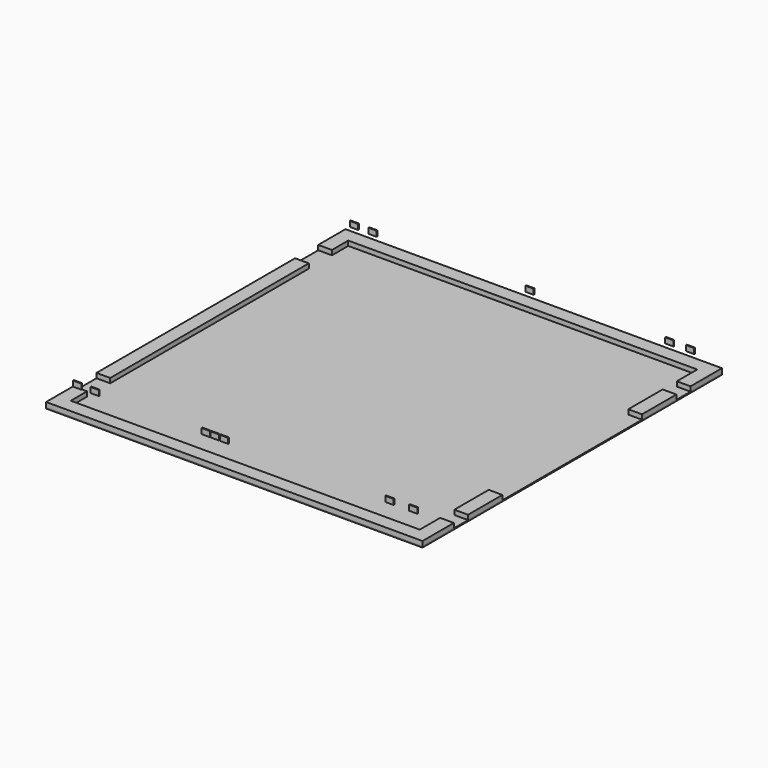
from build123d import *

# Parameters (mm, degrees)
F1_W      = 192
F1_H      = 601
F5_DEPTH  = 66
F6_W      = 5269
F6_H      = 5239
F7_DEPTH  = 15
F2_W      = 115
F2_H      = 14
F8_DEPTH  = 75
F3_W      = 115
F3_H      = 14
F9_DEPTH  = 75
F4_W      = 115
F4_H      = 14
F10_DEPTH = 75


with BuildPart() as f5:
    # F1 (on Top) → F5 (new body)
    with BuildSketch(Plane.XY):
        with Locations((2538.5, 905.5)):
            Rectangle(F1_W, F1_H)
        with Locations((2538.5, 3949.5)):
            Rectangle(F1_W, F1_H)
        Polygon((-2588.5, 4570), (-2488.5, 4570), (-2442.5, 4570), (-2442.5, 4855), (2442.5, 4855), (2442.5, 4498), (2634.5, 4498), (2634.5, 5047), (-2634.5, 5047), (-2634.5, 4570), align=None)
        Polygon((-2588.5, 690), (-2488.5, 690), (-2442.5, 690), (-2442.5, 4165), (-2488.5, 4165), (-2588.5, 4165), (-2634.5, 4165), (-2634.5, 690), align=None)
        Polygon((2442.5, 0), (-2442.5, 0), (-2442.5, 285), (-2488.5, 285), (-2588.5, 285), (-2634.5, 285), (-2634.5, -192), (2634.5, -192), (2634.5, 357), (2442.5, 357), align=None)
    extrude(amount=F5_DEPTH)


with BuildPart() as f7:
    # F6 (on Top) → F7 (new body)
    with BuildSketch(Plane.XY):
        with Locations((0, 2427.5)):
            Rectangle(F6_W, F6_H)
    extrude(amount=-F7_DEPTH)


with BuildPart() as f8:
    # F2 (on offset) → F8 (new body)
    with BuildSketch(Plane.XY.offset(250)):
        with Locations((2352.5, 7)):
            Rectangle(F2_W, F2_H)
        with Locations((-2352.5, 7)):
            Rectangle(F2_W, F2_H)
        with Locations((-2352.5, 4848)):
            Rectangle(F2_W, F2_H)
        with Locations((2352.5, 4848)):
            Rectangle(F2_W, F2_H)
    extrude(amount=F8_DEPTH)


with BuildPart() as f9:
    # F3 (on offset) → F9 (new body)
    with BuildSketch(Plane.XY.offset(250)):
        with Locations((2017.5, 7)):
            Rectangle(F3_W, F3_H)
        with Locations((-427.5, 7)):
            Rectangle(F3_W, F3_H)
        with Locations((-552.5, 7)):
            Rectangle(F3_W, F3_H)
        with Locations((-2107.5, 7)):
            Rectangle(F3_W, F3_H)
        with Locations((-2092.5, 4848)):
            Rectangle(F3_W, F3_H)
        with Locations((107.5, 4848)):
            Rectangle(F3_W, F3_H)
        with Locations((2062.5, 4848)):
            Rectangle(F3_W, F3_H)
    extrude(amount=F9_DEPTH)


with BuildPart() as f10:
    # F4 (on offset) → F10 (new body)
    with BuildSketch(Plane.XY.offset(250)):
        with Locations((-297.5, 7)):
            Rectangle(F4_W, F4_H)
    extrude(amount=F10_DEPTH)


solid = Compound([f5.part, f7.part, f8.part, f9.part, f10.part])
